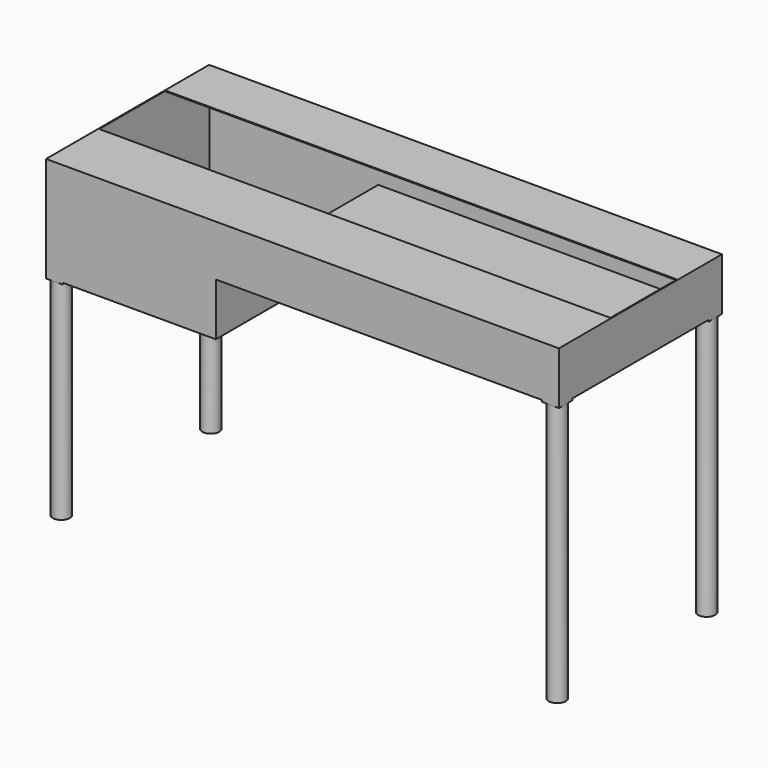
from build123d import *

# Parameters (mm, degrees)
F0_W      = 1510
F0_H      = 600
F1_DEPTH  = 150
F2_T      = -2.54
F3_W      = 500
F3_H      = 600
F4_DEPTH  = 155
F5_W      = 494.92
F5_H      = 594.92
F6_DEPTH  = 302.46
F7_W      = 1504.92
F7_H      = 245
F8_DEPTH  = 25.4
F10_DEPTH = 5
F11_R     = 25
F12_DEPTH = 770
F14_DEPTH = 5
F15_R     = 25
F16_DEPTH = 615
F17_W     = 597.46
F17_H     = 2.54
F18_DEPTH = 1007.46


with BuildPart() as f1:
    # F0 (on Top) → F1 (new body)
    with BuildSketch(Plane.XY):
        Rectangle(F0_W, F0_H)
    extrude(amount=F1_DEPTH)

    # F2
    f2_openings = [f1.faces().sort_by_distance(p)[0] for p in [
        (0, 0, 0),
    ]]
    offset(amount=F2_T, openings=f2_openings)

    # F3 (on face) → F4 (join)
    with BuildSketch(Plane(origin=(0, 0, 0), x_dir=(1, 0, 0), z_dir=(0, 0, -1))):
        with Locations((-505, 0)):
            Rectangle(F3_W, F3_H)
    extrude(amount=F4_DEPTH)

    # F5 (on face) → F6 (cut, through all)
    with BuildSketch(Plane(origin=(0, 0, -155), x_dir=(1, 0, 0), z_dir=(0, 0, -1))):
        with Locations((-505, 0)):
            Rectangle(F5_W, F5_H)
    extrude(amount=-F6_DEPTH, mode=Mode.SUBTRACT)

    # F7 (on face) → F8 (cut)
    with BuildSketch(Plane.XY.offset(150)):
        with Locations((0, 15.042861402)):
            Rectangle(F7_W, F7_H)
    extrude(amount=-F8_DEPTH, mode=Mode.SUBTRACT)

    # F9 (on face) → F10 (join)
    with BuildSketch(Plane(origin=(0, 0, 0), x_dir=(1, 0, 0), z_dir=(0, 0, -1))):
        Polygon((705, -300), (755, -300), (755, -250), align=None)
        Polygon((755, 250), (755, 300), (705, 300), align=None)
    extrude(amount=F10_DEPTH)

    # F11 (on face) → F12 (join)
    with BuildSketch(Plane(origin=(0, 0, -5), x_dir=(1, 0, 0), z_dir=(0, 0, -1))):
        with Locations((730, 275)):
            Circle(F11_R)
        with Locations((730, -275)):
            Circle(F11_R)
    extrude(amount=F12_DEPTH)

    # F13 (on face) → F14 (join)
    with BuildSketch(Plane(origin=(0, 0, -155), x_dir=(1, 0, 0), z_dir=(0, 0, -1))):
        Polygon((-755, -250), (-755, -300), (-705, -300), align=None)
        Polygon((-705, 300), (-755, 300), (-755, 250), align=None)
    extrude(amount=F14_DEPTH)

    # F15 (on face) → F16 (join, through all)
    with BuildSketch(Plane(origin=(0, 0, -160), x_dir=(1, 0, 0), z_dir=(0, 0, -1))):
        with Locations((-730, 275)):
            Circle(F15_R)
        with Locations((-730, -275)):
            Circle(F15_R)
    extrude(amount=F16_DEPTH)


with BuildPart() as f18:
    # F17 (on face) → F18 (new body, through all)
    with BuildSketch(Plane.YZ.offset(-255)):
        with Locations((1.27, 1.27)):
            Rectangle(F17_W, F17_H)
    extrude(amount=F18_DEPTH)


solid = Compound([f1.part, f18.part])
